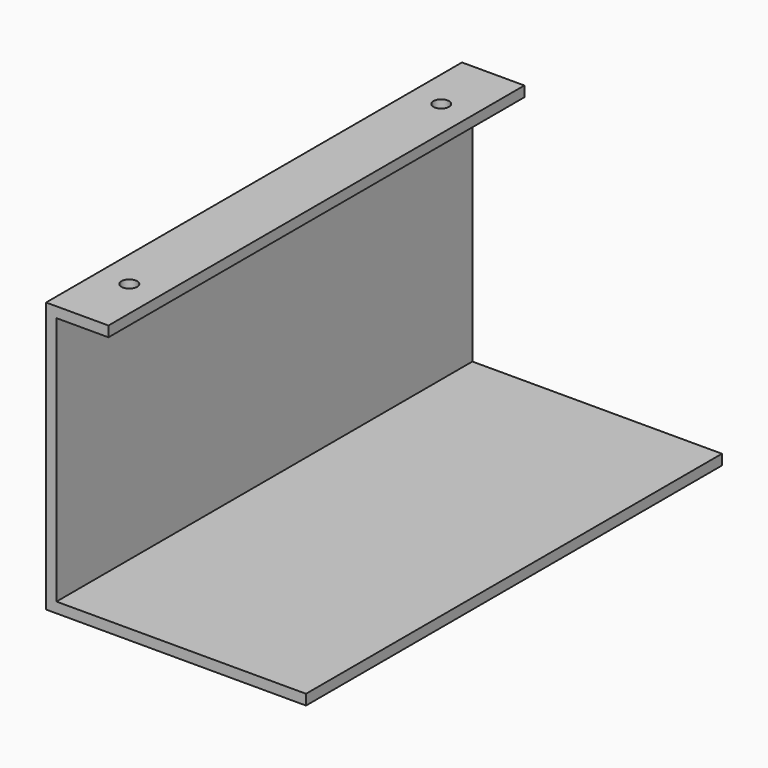
from build123d import *

# Parameters (mm, degrees)
F0_W     = 50
F0_H     = 100
F1_DEPTH = 2
F2_W     = 2
F2_H     = 100
F3_DEPTH = 50
F4_W     = 100
F4_H     = 2
F5_DEPTH = 10
F6_R     = 1.5
F7_DEPTH = 2


with BuildPart() as f1:
    # F0 (on Top) → F1 (new body)
    with BuildSketch(Plane.XY):
        Rectangle(F0_W, F0_H)
    extrude(amount=F1_DEPTH)

    # F2 (on face) → F3 (join)
    with BuildSketch(Plane.XY.offset(2)):
        with Locations((-24, 0)):
            Rectangle(F2_W, F2_H)
    extrude(amount=F3_DEPTH)

    # F4 (on face) → F5 (join)
    with BuildSketch(Plane.YZ.offset(-23)):
        with Locations((0, 51)):
            Rectangle(F4_W, F4_H)
    extrude(amount=F5_DEPTH)

    # F6 (on face) → F7 (cut, through all)
    with BuildSketch(Plane.XY.offset(52)):
        with Locations((-18.9944, 37.5)):
            Circle(F6_R)
        with Locations((-18.9944, -37.5)):
            Circle(F6_R)
    extrude(amount=-F7_DEPTH, mode=Mode.SUBTRACT)


solid = f1.part
